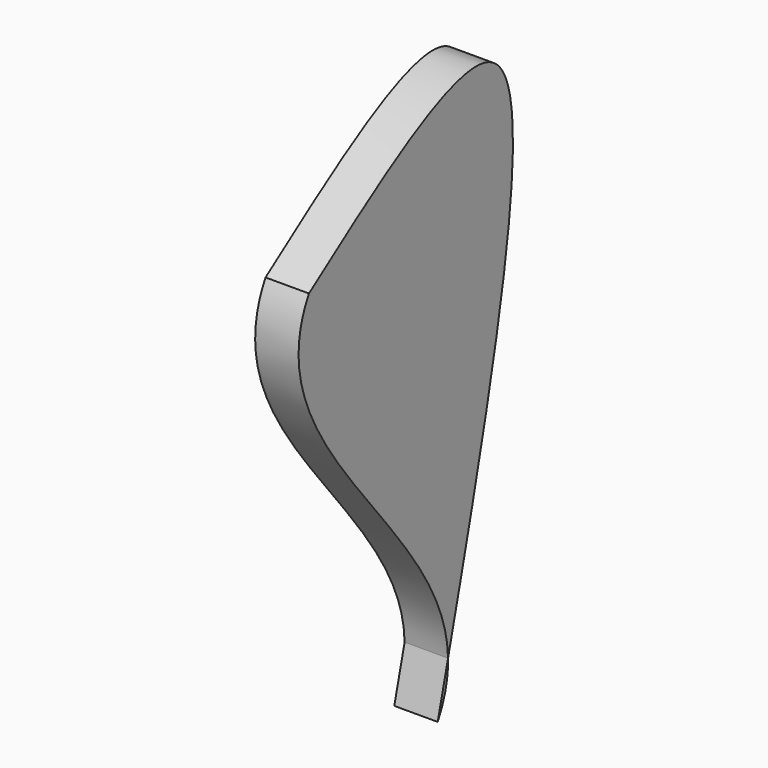
from build123d import *

# Parameters (mm, degrees)
F1_DEPTH = 4.572


with BuildPart() as f1:
    # F0 (on Right) → F1 (new body)
    with BuildSketch(Plane.YZ):
        with BuildLine():
            add(Edge.make_bspline(
                [(1.3620024716, 5.3489339752), (0.910567978, 3.570365461), (0.455283989, 1.7851827305), (0, 0)],
                knots=[0.9602645799, 0.9602645799, 0.9602645799, 0.9602645799, 1, 1, 1, 1], degree=3))
            add(Edge.make_bspline(
                [(0, 0), (0.996218244, 1.7588407678), (1.4039287781, 3.5438794073), (1.3620024716, 5.3489339752)],
                knots=[0, 0, 0, 0, 5.8507649402, 5.8507649402, 5.8507649402, 5.8507649402], degree=3))
        make_face()
    extrude(amount=F1_DEPTH)


with BuildPart() as f1b:
    # F0 (on Right) → F1, piece 2 (new body)
    with BuildSketch(Plane.YZ):
        with BuildLine():
            add(Edge.make_bspline(
                [(1.3620024716, 5.3489339752), (1.0485777282, 18.8428191444), (-24.3926915703, 33.4552895685), (-16.9453518465, 46.6036983607)],
                knots=[5.8507649402, 5.8507649402, 5.8507649402, 5.8507649402, 49.5888056934, 49.5888056934, 49.5888056934, 49.5888056934], degree=3))
            add(Edge.make_bspline(
                [(-16.9453518465, 46.6036983607), (-6.800198517, 53.8259219332), (17.2845618837, 70.9715991502), (7.676169153, 30.2255843232), (1.3620024716, 5.3489339752)],
                knots=[0, 0, 0, 0, 0.4044894463, 0.9602645799, 0.9602645799, 0.9602645799, 0.9602645799], degree=3))
        make_face()
    extrude(amount=F1_DEPTH)


solid = Compound([f1.part, f1b.part])
